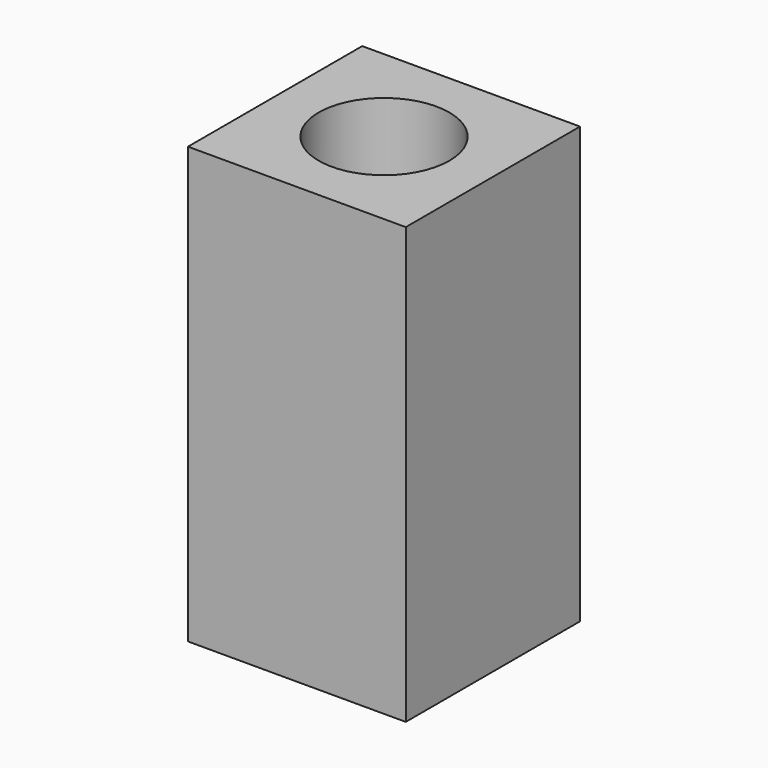
from build123d import *

# Parameters (mm, degrees)
F0_W     = 50
F0_H     = 50
F1_DEPTH = 100


with BuildPart() as f1:
    # F0 (on Top) → F1 (new body)
    with BuildSketch(Plane.XY):
        Rectangle(F0_W, F0_H)
    extrude(amount=F1_DEPTH)

    # F2 (on Front) → F3 (revolve, cut)
    with BuildSketch(Plane.XZ):
        Polygon((0, 0), (1.5, 0), (1.5, 5), (6.5, 5), (6.5, 6.5), (15, 6.5), (15, 100), (0, 100), align=None)
    revolve(axis=Axis((0, 0, 50), (0, 0, -1)), mode=Mode.SUBTRACT)


solid = f1.part
